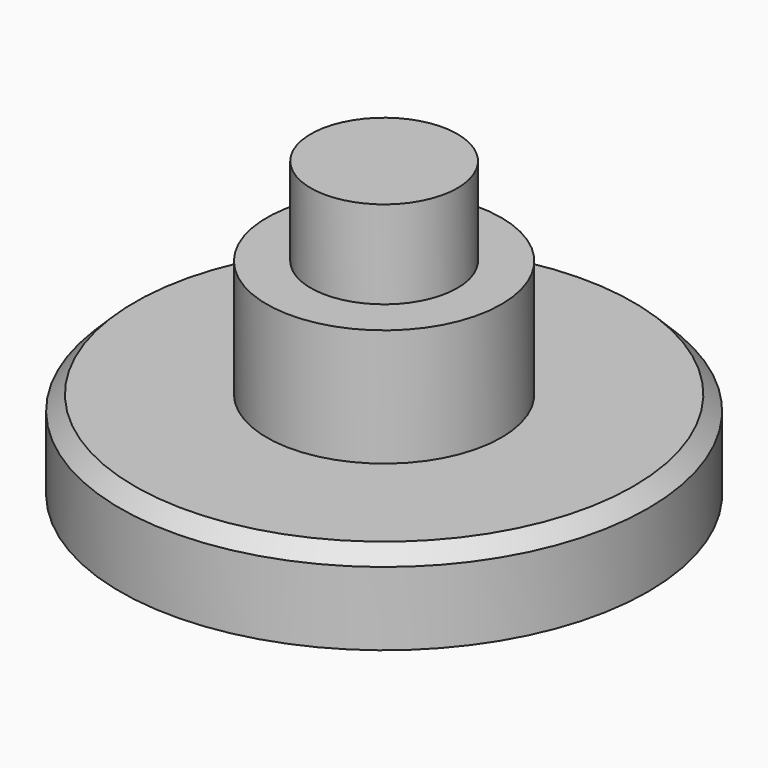
from build123d import *

# Parameters (mm, degrees)
F0_R     = 9
F1_DEPTH = 3
F2_SIZE  = 0.5
F3_R     = 4
F4_DEPTH = 4
F5_R     = 2.5
F6_DEPTH = 3
F8_DEPTH = 1.5


with BuildPart() as f1:
    # F0 (on Top) → F1 (new body)
    with BuildSketch(Plane.XY):
        Circle(F0_R)
    extrude(amount=F1_DEPTH)

    # F2
    f2_edges = [f1.edges().sort_by_distance(p)[0] for p in [
        (-9, 0, 3),
    ]]
    chamfer(f2_edges, length=F2_SIZE)

    # F3 (on face) → F4 (join)
    with BuildSketch(Plane.XY.offset(3)):
        Circle(F3_R)
    extrude(amount=F4_DEPTH)

    # F5 (on face) → F6 (join)
    with BuildSketch(Plane.XY.offset(7)):
        Circle(F5_R)
    extrude(amount=F6_DEPTH)

    # F7 (on face) → F8 (cut)
    with BuildSketch(Plane(origin=(0, 0, 0), x_dir=(1, 0, 0), z_dir=(0, 0, -1))):
        Polygon((-0.031379, 5.948377), (-0.235333, 5.919157), (-0.372759, 5.868757), (-0.500818, 5.801363), (-0.64831, 5.683569), (-0.711513, 5.643549), (-0.766303, 5.595223), (-0.884297, 5.389084), (-0.972792, 2.355883), (-1.91674, 3.298237), (-2.464657, 3.842872), (-2.74588, 4.106761), (-3.037677, 4.358384), (-3.197437, 4.424921), (-3.362159, 4.476179), (-3.5244, 4.487041), (-3.686641, 4.476179), (-4.011123, 4.358384), (-4.276609, 4.122796), (-4.349034, 4.030994), (-4.401972, 3.928468), (-4.483097, 3.710516), (-4.483097, 3.357134), (-4.394602, 3.092097), (-4.24711, 2.885957), (-3.303163, 1.914155), (-2.359215, 0.971802), (-5.220556, 0.942353), (-5.397547, 0.883456), (-5.427045, 0.854008), (-5.556038, 0.793243), (-5.614945, 0.756011), (-5.663032, 0.706765), (-5.840022, 0.471176), (-5.958016, 0.117794), (-5.958016, -0.058897), (-5.940408, -0.209293), (-5.899019, -0.353383), (-5.843566, -0.461413), (-5.781025, -0.559523), (-5.655249, -0.699811), (-5.51554, -0.82456), (-5.220556, -0.942354), (-5.075648, -0.968558), (-4.928112, -0.97628), (-4.630589, -0.971802), (-4.188114, -0.971802), (-2.359215, -0.971802), (-2.368134, -1.005446), (-2.388713, -1.030699), (-3.332661, -1.973053), (-4.276609, -2.915406), (-4.34313, -2.999393), (-4.394602, -3.092097), (-4.419005, -3.155066), (-4.453599, -3.209892), (-4.476923, -3.415726), (-4.483097, -3.622171), (-4.464349, -3.757662), (-4.424101, -3.887208), (-4.374765, -3.997645), (-4.306107, -4.093348), (-4.188114, -4.240591), (-4.103985, -4.307), (-4.011123, -4.358385), (-3.71614, -4.476179), (-3.391658, -4.476179), (-3.067176, -4.387833), (-2.890186, -4.240591), (-1.946238, -3.298237), (-1.00229, -2.355884), (-0.884297, -5.418533), (-0.8253, -5.506878), (-0.699524, -5.647167), (-0.559815, -5.771915), (-0.503448, -5.807594), (-0.441821, -5.830812), (-0.341941, -5.885287), (-0.235333, -5.919158), (0.089149, -5.948606), (0.384133, -5.889709), (0.708615, -5.654121), (0.754319, -5.61094), (0.790702, -5.558969), (0.856107, -5.447981), (0.9741, -5.094599), (0.9741, -4.417282), (0.9741, -2.591472), (0.971489, -2.477691), (0.979459, -2.426523), (1.003599, -2.385332), (1.947546, -3.327686), (2.891494, -4.270039), (3.122896, -4.385014), (3.363468, -4.476179), (3.68795, -4.476179), (3.805943, -4.446731), (3.94337, -4.39633), (4.071429, -4.328936), (4.218921, -4.211142), (4.425409, -3.916657), (4.513904, -3.474929), (4.444862, -3.229831), (4.398065, -3.113042), (4.336914, -3.003752), (4.300041, -2.947904), (4.277917, -2.885958), (3.33397, -1.943604), (2.390022, -1.001251), (2.41952, -0.971802), (2.861996, -0.971802), (4.690894, -0.971802), (4.972609, -0.968567), (5.251363, -0.942354), (5.280862, -0.912905), (5.546347, -0.82456), (5.723337, -0.61842), (5.839817, -0.478169), (5.883167, -0.404005), (5.900327, -0.323934), (5.934856, -0.237188), (5.954737, -0.147151), (5.958016, 0.039233), (5.925076, 0.228087), (5.870829, 0.412279), (5.7562, 0.594983), (5.685681, 0.672036), (5.605344, 0.736213), (5.428354, 0.883456), (5.192367, 0.942353), (4.838344, 0.987761), (4.482387, 1.011028), (3.766457, 1.011578), (3.048146, 0.984877), (2.331025, 0.971802), (3.274973, 1.914155), (4.218921, 2.856509), (4.337268, 2.979647), (4.379451, 3.047229), (4.395911, 3.121546), (4.454907, 3.209891), (4.513904, 3.504377), (4.444233, 3.827854), (4.386266, 3.98061), (4.307416, 4.122796), (4.04193, 4.358384), (3.717448, 4.476179), (3.555567, 4.481563), (3.392966, 4.476179), (3.215976, 4.44673), (3.186478, 4.417282), (3.038986, 4.358384), (2.944209, 4.294123), (2.861996, 4.211142), (1.918048, 3.268788), (0.9741, 2.326435), (0.9741, 3.092097), (0.9741, 4.947355), (0.94889, 5.186814), (0.885605, 5.418532), (0.649618, 5.713018), (0.576669, 5.769819), (0.540299, 5.792295), (0.502126, 5.801363), (0.468426, 5.810267), (0.44313, 5.830812), (0.313926, 5.898818), (0.177644, 5.948606), align=None)
    extrude(amount=-F8_DEPTH, mode=Mode.SUBTRACT)


solid = f1.part
